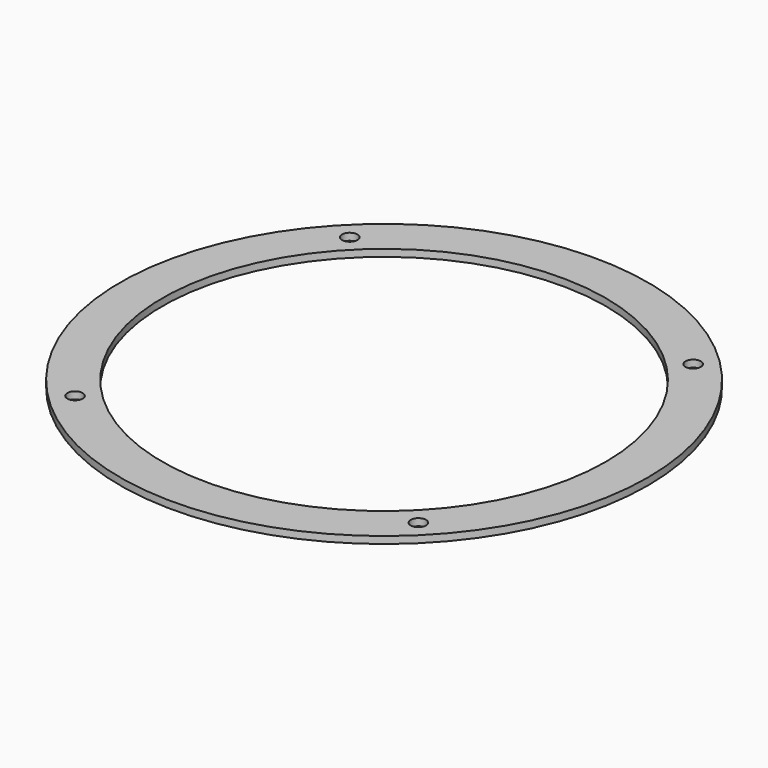
from build123d import *

# Parameters (mm, degrees)
F0_R     = 59.474989
F0_R_2   = 1.7272
F0_R_3   = 49.949989
F1_DEPTH = 1.5875


with BuildPart() as f1:
    # F0 (on Top) → F1 (new body)
    with BuildSketch(Plane.XY):
        Circle(F0_R)
        with Locations((-38.687572, -38.687572)):
            Circle(F0_R_2, mode=Mode.SUBTRACT)
        Circle(F0_R_3, mode=Mode.SUBTRACT)
        with Locations((38.687572, -38.687572)):
            Circle(F0_R_2, mode=Mode.SUBTRACT)
        with Locations((-38.687572, 38.687572)):
            Circle(F0_R_2, mode=Mode.SUBTRACT)
        with Locations((38.687572, 38.687572)):
            Circle(F0_R_2, mode=Mode.SUBTRACT)
    extrude(amount=F1_DEPTH)


solid = f1.part
